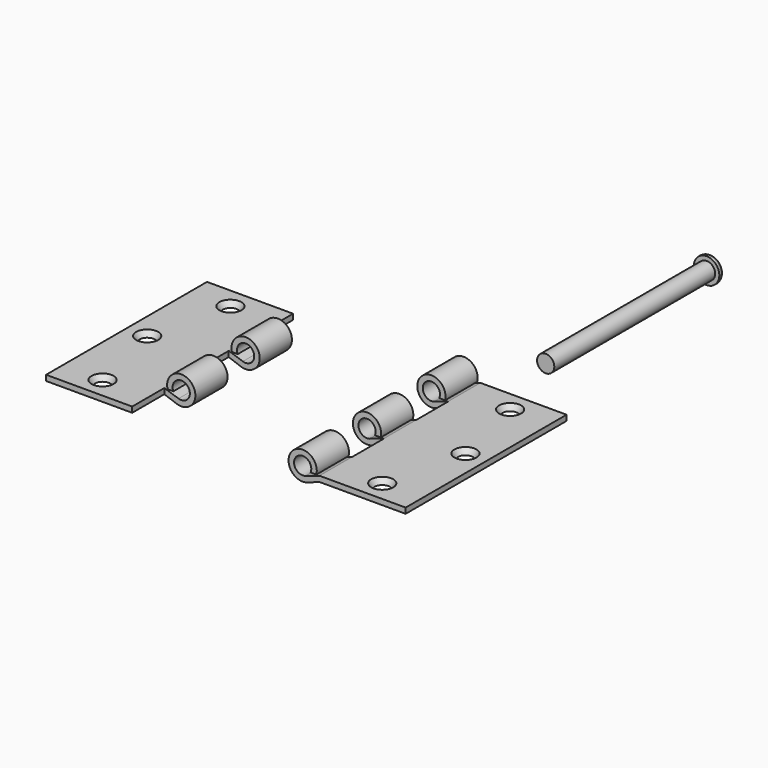
from build123d import *

# Parameters (mm, degrees)
F0_W      = 125
F0_H      = 292
F1_DEPTH  = 8
F3_DEPTH  = 292
F4_R      = 16
F5_R      = 11
F11_W     = 71.4123101234
F11_H     = 58.4
F11_W_2   = 89.3908293247
F12_W     = 76.7488330603
F12_H     = 58.41
F12_H_2   = 58.4
F13_DEPTH = 50
F15_R     = 12.5
F16_DEPTH = 292
F17_R     = 18.5
F17_R_2   = 12.5
F18_DEPTH = 8
F19_R     = 5


with BuildPart() as f1:
    # F0 (on Top) → F1 (new body)
    with BuildSketch(Plane.XY):
        Rectangle(F0_W, F0_H)
    extrude(amount=F1_DEPTH)

    # F2 (on face) → F3 (join)
    with BuildSketch(Plane.XZ.offset(146)):
        with BuildLine():
            Line((-75.5435607626, 8), (-67.1191046479, 8))
            ThreePointArc((-67.1191046479, 8), (-102.1852087826, 26.7716895924), (-80.0874304335, -6.2993881247))
            Line((-80.0874304335, -6.2993881247), (-62.5, 0))
            Line((-62.5, 0), (-62.5, 8))
            Line((-62.5, 8), (-83.0422238932, 1.1431029233))
            ThreePointArc((-83.0422238932, 1.1431029233), (-95.4352692932, 22.2247618913), (-75.5435607626, 8))
        make_face()
    extrude(amount=-F3_DEPTH)

    # F4 (on face) → F6 section 0
    with BuildSketch(Plane.XY.offset(8)):
        with Locations((4.5, -116)):
            Circle(F4_R)
    # F5 (on face) → F6 section 1
    with BuildSketch(Plane(origin=(0, 0, 0), x_dir=(1, 0, 0), z_dir=(0, 0, -1))):
        with Locations((4.5, 116)):
            Circle(F5_R)
    loft(mode=Mode.SUBTRACT)

    # F5 (on face) → F7 section 0
    with BuildSketch(Plane(origin=(0, 0, 0), x_dir=(1, 0, 0), z_dir=(0, 0, -1))):
        with Locations((32.5, 0)):
            Circle(F5_R)
    # F4 (on face) → F7 section 1
    with BuildSketch(Plane.XY.offset(8)):
        with Locations((32.5, 0)):
            Circle(F4_R)
    loft(mode=Mode.SUBTRACT)

    # F4 (on face) → F8 section 0
    with BuildSketch(Plane.XY.offset(8)):
        with Locations((4.5, 116)):
            Circle(F4_R)
    # F5 (on face) → F8 section 1
    with BuildSketch(Plane(origin=(0, 0, 0), x_dir=(1, 0, 0), z_dir=(0, 0, -1))):
        with Locations((4.5, -116)):
            Circle(F5_R)
    loft(mode=Mode.SUBTRACT)


with BuildPart() as f10_1:
    # F10: instance of F1
    add(f1.part.mirror(Plane(origin=(-198.5, 0, 4), x_dir=(0, 1, 0), z_dir=(1, 0, 0))))


with BuildPart() as f13_tool:
    # F11 (on face) + F12 (on face) → F13 (new body, symmetric)
    with BuildSketch(Plane.XY.offset(8)):
        with Locations((-298.7938449383, 116.8)):
            Rectangle(F11_W, F11_H)
        with Locations((-289.8045853376, 0)):
            Rectangle(F11_W_2, F11_H)
        with Locations((-289.8045853376, -116.8)):
            Rectangle(F11_W_2, F11_H)
    with BuildSketch(Plane.XY.offset(8)):
        with Locations((-100.8744165301, -58.405)):
            Rectangle(F12_W, F12_H)
        with Locations((-100.8744165301, 58.4)):
            Rectangle(F12_W, F12_H_2)
    extrude(amount=F13_DEPTH, both=True)


with BuildPart() as f1_1:
    add(f1.part)

    # F13: cut by f13_tool
    add(f13_tool.part, mode=Mode.SUBTRACT)


with BuildPart() as f10_1_1:
    add(f10_1.part)

    # F13: cut by f13_tool
    add(f13_tool.part, mode=Mode.SUBTRACT)


with BuildPart() as f16:
    # F15 (on offset) → F16 (new body)
    with BuildSketch(Plane(origin=(0, 213.5, 0), x_dir=(-1, 0, 0), z_dir=(0, 1, 0))):
        with Locations((21.8227952719, 18.5511354357)):
            Circle(F15_R)
    extrude(amount=F16_DEPTH)

    # F17 (on face) → F18 (join)
    with BuildSketch(Plane(origin=(0, 505.5, 0), x_dir=(-1, 0, 0), z_dir=(0, 1, 0))):
        with Locations((21.8227952719, 18.5511354357)):
            Circle(F17_R)
        with Locations((21.8227952719, 18.5511354357)):
            Circle(F17_R_2, mode=Mode.SUBTRACT)
        with Locations((21.8227952719, 18.5511354357)):
            Circle(F17_R_2)
    extrude(amount=F18_DEPTH)

    # F19
    f19_edges = [f16.edges().sort_by_distance(p)[0] for p in [
        (-3.322795, 513.5, 18.551135),
    ]]
    fillet(f19_edges, radius=F19_R)


solid = Compound([f1_1.part, f10_1_1.part, f16.part])
